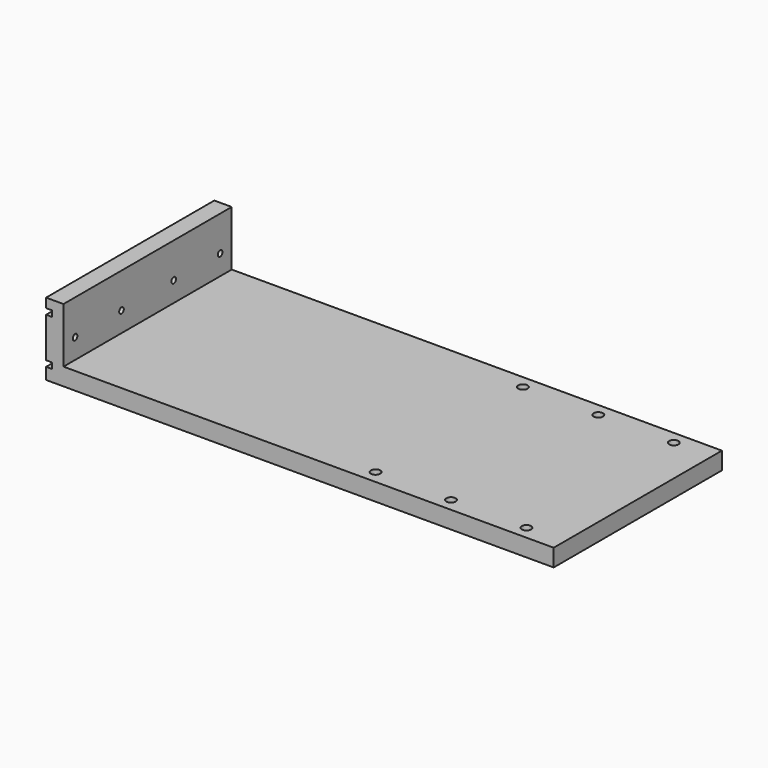
from build123d import *

# Parameters (mm, degrees)
F0_W     = 175
F0_H     = 72.5
F1_DEPTH = 25
F2_W     = 169
F2_H     = 72.5
F3_DEPTH = 19
F5_D     = 3.2
F6_W     = 72.5
F6_H     = 2
F7_DEPTH = 2
F9_D     = 2


with BuildPart() as f1:
    # F0 (on Top) → F1 (new body)
    with BuildSketch(Plane.XY):
        Rectangle(F0_W, F0_H)
    extrude(amount=F1_DEPTH)

    # F2 (on face) → F3 (cut)
    with BuildSketch(Plane.XY.offset(25)):
        with Locations((3, 0)):
            Rectangle(F2_W, F2_H)
    extrude(amount=-F3_DEPTH, mode=Mode.SUBTRACT)

    # F5 (through all)
    with Locations(Plane.XY.offset(6)):
        with Locations((22.5, 31.75), (48.5, 31.75), (74.5, 31.75), (74.5, -31.75), (48.5, -31.75), (22.5, -31.75)):
            Hole(F5_D / 2)

    # F6 (on face) → F7 (cut)
    with BuildSketch(Plane(origin=(-87.5, 0, 0), x_dir=(0, -1, 0), z_dir=(-1, 0, 0))):
        with Locations((0, 5)):
            Rectangle(F6_W, F6_H)
        with Locations((0, 20.8)):
            Rectangle(F6_W, F6_H)
    extrude(amount=-F7_DEPTH, mode=Mode.SUBTRACT)

    # F9 (through all)
    with Locations(Plane(origin=(-87.5, 0, 0), x_dir=(0, -1, 0), z_dir=(-1, 0, 0))):
        with Locations((-31.25, 12.9), (-11.25, 12.9), (11.25, 12.9), (31.25, 12.9)):
            Hole(F9_D / 2)


solid = f1.part
